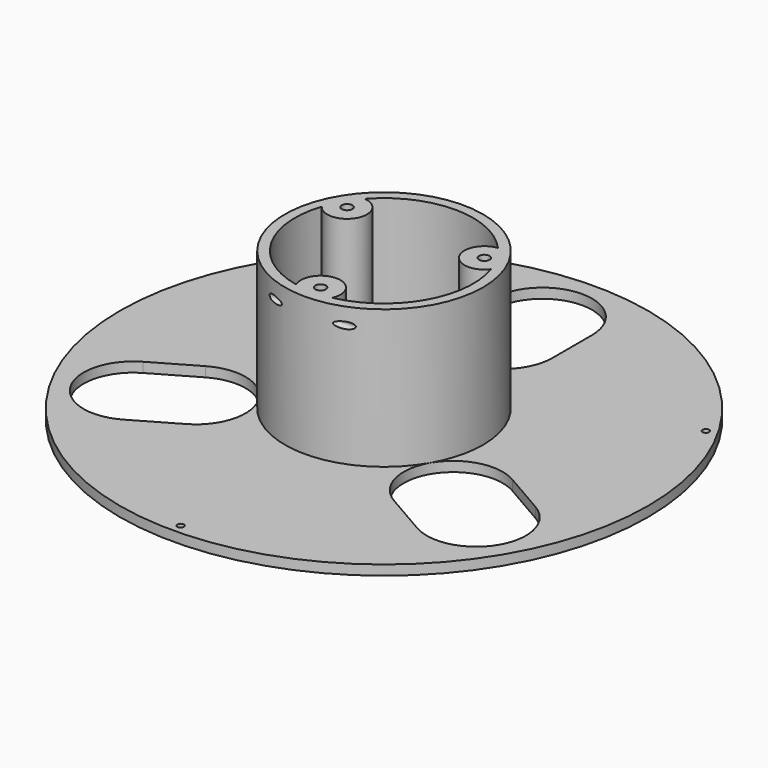
from build123d import *

# Parameters (mm, degrees)
SKETCH_R             = 80
SKETCH_R_2           = 15
SKETCH_R_3           = 1
PAD_DEPTH            = 3
SKETCH001_R          = 30
SKETCH001_R_2        = 27
PAD001_DEPTH         = 45
SKETCH002_R          = 6
PAD002_DEPTH         = 45
SKETCH004_R          = 1.6
POCKET_DEPTH         = 45.001
SKETCH003_R          = 4
POCKET001_DEPTH      = 20
SKETCH005_R          = 1
POCKET002_DEPTH      = 80.001
POCKET002_DEPTH_BACK = -80.001
POCKET003_DEPTH      = 24


with BuildPart() as part:
    # Sketch → Pad (new body)
    with BuildSketch(Plane.XY):
        Circle(SKETCH_R)
        Circle(SKETCH_R_2, mode=Mode.SUBTRACT)
        with Locations((-66.683956, 38.5)):
            Circle(SKETCH_R_3, mode=Mode.SUBTRACT)
        with Locations((66.683956, 38.5)):
            Circle(SKETCH_R_3, mode=Mode.SUBTRACT)
        with Locations((0, -77)):
            Circle(SKETCH_R_3, mode=Mode.SUBTRACT)
        with BuildLine():
            ThreePointArc((-15, 45), (0, 30), (15, 45))
            Line((15, 45), (15, 60))
            ThreePointArc((15, 60), (0, 75), (-15, 60))
            Line((-15, 45), (-15, 60))
        make_face(mode=Mode.SUBTRACT)
        with BuildLine():
            ThreePointArc((-31.471143, -35.490381), (-25.980762, -15), (-46.471143, -9.509619))
            Line((-46.471143, -9.509619), (-59.461524, -17.009619))
            ThreePointArc((-59.461524, -17.009619), (-64.951905, -37.5), (-44.461524, -42.990381))
            Line((-31.471143, -35.490381), (-44.461524, -42.990381))
        make_face(mode=Mode.SUBTRACT)
        with BuildLine():
            ThreePointArc((46.471143, -9.509619), (25.980762, -15), (31.471143, -35.490381))
            Line((31.471143, -35.490381), (44.461524, -42.990381))
            ThreePointArc((44.461524, -42.990381), (64.951905, -37.5), (59.461524, -17.009619))
            Line((46.471143, -9.509619), (59.461524, -17.009619))
        make_face(mode=Mode.SUBTRACT)
    extrude(amount=PAD_DEPTH)

    # Sketch001 → Pad001 (join)
    with BuildSketch(Plane.XY):
        Circle(SKETCH001_R)
        Circle(SKETCH001_R_2, mode=Mode.SUBTRACT)
    extrude(amount=PAD001_DEPTH)

    # Sketch002 → Pad002 (join)
    with BuildSketch(Plane.XY):
        with Locations((-20.78461, 12)):
            Circle(SKETCH002_R)
        with Locations((0, -24)):
            Circle(SKETCH002_R)
        with Locations((20.78461, 12)):
            Circle(SKETCH002_R)
    extrude(amount=PAD002_DEPTH)

    # Sketch004 → Pocket (cut, through all)
    with BuildSketch(Plane.XY):
        with Locations((-20.78461, 12)):
            Circle(SKETCH004_R)
        with Locations((20.78461, 12)):
            Circle(SKETCH004_R)
        with Locations((0, -24)):
            Circle(SKETCH004_R)
    extrude(amount=POCKET_DEPTH, mode=Mode.SUBTRACT)

    # Sketch003 → Pocket001 (cut)
    with BuildSketch(Plane.XY):
        with Locations((-20.78461, 12)):
            Circle(SKETCH003_R)
        with Locations((20.78461, 12)):
            Circle(SKETCH003_R)
        with Locations((0, -24)):
            Circle(SKETCH003_R)
    extrude(amount=POCKET001_DEPTH, mode=Mode.SUBTRACT)

    # Sketch005 → Pocket002 (cut, two sides)
    with BuildSketch(Plane.YZ) as pocket002_sk:
        with Locations((-28, 40)):
            Circle(SKETCH005_R)
    extrude(amount=-POCKET002_DEPTH, mode=Mode.SUBTRACT)
    extrude(pocket002_sk.sketch, amount=-POCKET002_DEPTH_BACK, mode=Mode.SUBTRACT)

    # Sketch006 → Pocket003 (cut)
    with BuildSketch(Plane.XY):
        Polygon((-17.90961, 10.340118), (-17.90961, 13.659882), (-20.78461, 15.319764), (-23.65961, 13.659882), (-23.65961, 10.340118), (-20.78461, 8.680236), align=None)
        Polygon((20.78461, 8.680236), (23.65961, 10.340118), (23.65961, 13.659882), (20.78461, 15.319764), (17.90961, 13.659882), (17.90961, 10.340118), align=None)
        Polygon((2.875, -25.659882), (2.875, -22.340118), (0, -20.680236), (-2.875, -22.340118), (-2.875, -25.659882), (0, -27.319764), align=None)
    extrude(amount=POCKET003_DEPTH, mode=Mode.SUBTRACT)


solid = part.part
